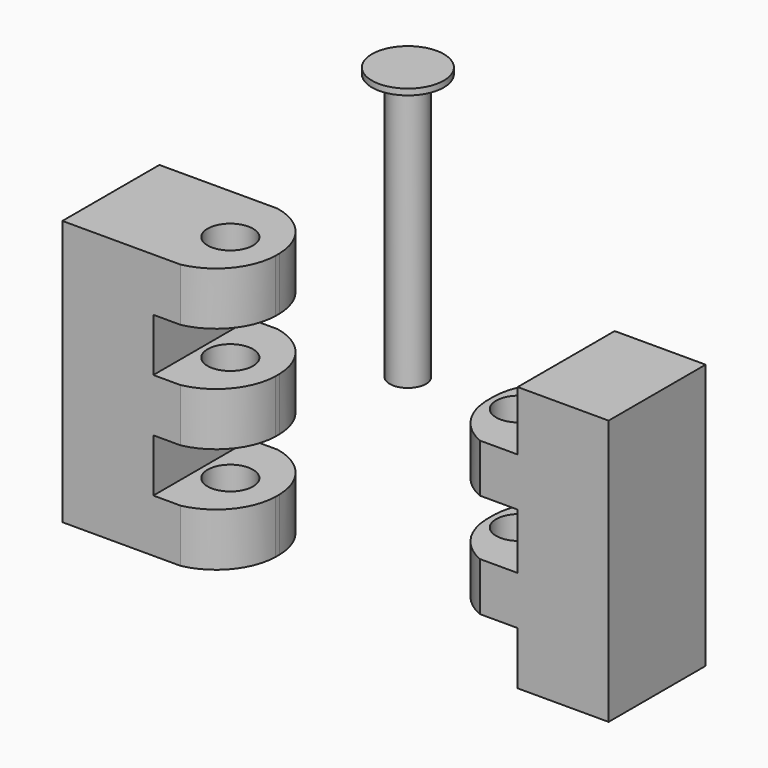
from build123d import *

# Parameters (mm, degrees)
F0_W      = 15.875
F0_H      = 11.1125
F1_DEPTH  = 25.4
F3_D      = 9.525
F4_W      = 15.875
F4_H      = 10.16
F5_DEPTH  = 25.4
F7_D      = 9.525
F8_R      = 3.81
F9_DEPTH  = 55.88
F10_R     = 7.5302035997
F10_R_2   = 3.81
F11_DEPTH = 1.27
F13_DEPTH = 76.2
F15_DEPTH = 76.2


with BuildPart() as f1:
    # F0 (on Front) → F1 (new body)
    with BuildSketch(Plane.XZ):
        Polygon((-33.0004044219, 22.225), (-52.0504044219, 22.225), (-52.0504044219, -33.3375), (-33.0004044219, -33.3375), (-33.0004044219, -22.225), (-33.0004044219, -11.1125), (-33.0004044219, 0), (-33.0004044219, 11.1125), align=None)
        with Locations((-25.0629044219, 16.66875)):
            Rectangle(F0_W, F0_H)
        with Locations((-25.0629044219, -5.55625)):
            Rectangle(F0_W, F0_H)
        with Locations((-25.0629044219, -27.78125)):
            Rectangle(F0_W, F0_H)
    extrude(amount=F1_DEPTH)

    # F3 (through all)
    with Locations(Plane.XY.offset(22.225)):
        with Locations((-27.0314044219, -12.7)):
            Hole(F3_D / 2)

    # F12 (on face) → F13 (cut)
    with BuildSketch(Plane.XY.offset(22.225)):
        with BuildLine():
            ThreePointArc((-27.2854044219, 0), (-20.0677675839, -4.3119668279), (-17.1254044219, -12.1878692189))
            Line((-17.1254044219, -12.1878692189), (-17.1254044219, 0))
            Line((-17.1254044219, 0), (-27.2854044219, 0))
        make_face()
        with BuildLine():
            Line((-17.1254044219, -25.4), (-17.1254044219, -13.2121307811))
            ThreePointArc((-17.1254044219, -13.2121307811), (-20.0677675839, -21.0880331721), (-27.2854044219, -25.4))
            Line((-27.2854044219, -25.4), (-17.1254044219, -25.4))
        make_face()
    extrude(amount=-F13_DEPTH, mode=Mode.SUBTRACT)


with BuildPart() as f5:
    # F4 (on Front) → F5 (new body)
    with BuildSketch(Plane.XZ):
        Polygon((62.3705395252, -32.9565), (62.3705395252, 22.606), (43.3205395252, 22.606), (43.3205395252, 10.16), (43.3205395252, 0), (43.3205395252, -11.684), (43.3205395252, -21.844), (43.3205395252, -32.9565), align=None)
        with Locations((35.3830395252, 5.08)):
            Rectangle(F4_W, F4_H)
        with Locations((35.3830395252, -16.764)):
            Rectangle(F4_W, F4_H)
    extrude(amount=F5_DEPTH)

    # F7 (through all)
    with Locations(Plane.XY.offset(10.16)):
        with Locations((33.4145395252, -12.7)):
            Hole(F7_D / 2)

    # F14 (on face) → F15 (cut)
    with BuildSketch(Plane.XY.offset(10.16)):
        with BuildLine():
            Line((27.4455395252, 0), (27.4455395252, -11.5768858415))
            ThreePointArc((27.4455395252, -11.5768858415), (29.7541859387, -4.6502203972), (35.3830395252, 0))
            Line((35.3830395252, 0), (27.4455395252, 0))
        make_face()
        with BuildLine():
            ThreePointArc((35.3830395252, -25.4), (29.76256364, -20.7789909403), (27.4455395252, -13.8815368334))
            Line((27.4455395252, -13.8815368334), (27.4455395252, -25.4))
            Line((27.4455395252, -25.4), (35.3830395252, -25.4))
        make_face()
    extrude(amount=-F15_DEPTH, mode=Mode.SUBTRACT)


with BuildPart() as f9:
    # F8 (on Top) → F9 (new body)
    with BuildSketch(Plane.XY):
        Circle(F8_R)
    extrude(amount=F9_DEPTH)

    # F10 (on face) → F11 (join)
    with BuildSketch(Plane.XY.offset(55.88)):
        Circle(F10_R)
        Circle(F10_R_2, mode=Mode.SUBTRACT)
        Circle(F10_R_2)
    extrude(amount=F11_DEPTH)


solid = Compound([f1.part, f5.part, f9.part])
